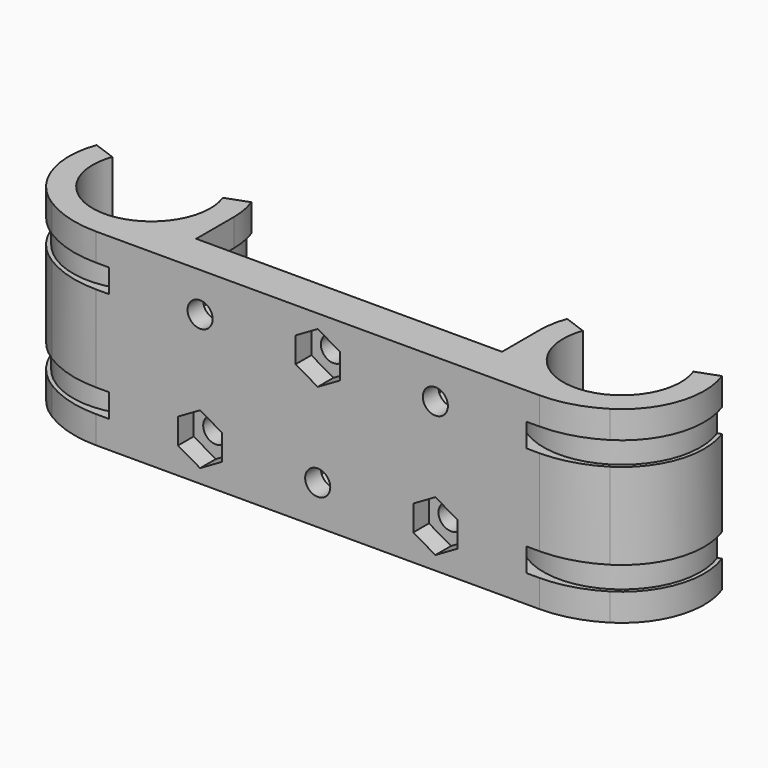
from build123d import *

# Parameters (mm, degrees)
SKETCH002_R      = 1.6
PAD002_DEPTH     = 10
PAD001_DEPTH     = 2.5
CLONE_ROLL_ANGLE = 180
SKETCH003_R      = 11.5
SKETCH003_R_2    = 10
PAD003_DEPTH     = 1.5
PAD_DEPTH        = 12


with BuildPart() as pad002:
    # Sketch002 → Pad002 (new body)
    with BuildSketch(Plane.XZ.offset(6)):
        with Locations((-15, 7)):
            Circle(SKETCH002_R)
        with Locations((0, -7)):
            Circle(SKETCH002_R)
        with Locations((15, 7)):
            Circle(SKETCH002_R)
        with Locations((-15, -7)):
            Circle(SKETCH002_R)
        with Locations((0, 7)):
            Circle(SKETCH002_R)
        with Locations((15, -7)):
            Circle(SKETCH002_R)
    extrude(amount=PAD002_DEPTH)


with BuildPart() as pad001:
    # Sketch001 → Pad001 (new body)
    with BuildSketch(Plane.XZ.offset(6)):
        Polygon((-12.185417, 5.375), (-12.185417, 8.625), (-15, 10.25), (-17.814583, 8.625), (-17.814583, 5.375), (-15, 3.75), align=None)
        Polygon((2.814583, -8.625), (2.814583, -5.375), (0, -3.75), (-2.814583, -5.375), (-2.814583, -8.625), (0, -10.25), align=None)
        Polygon((17.814583, 5.375), (17.814583, 8.625), (15, 10.25), (12.185417, 8.625), (12.185417, 5.375), (15, 3.75), align=None)
    extrude(amount=PAD001_DEPTH)


with BuildPart() as fusion:
    # Clone base: copy of Pad001
    add(pad001.part)


with BuildPart() as fusion_1:
    # Clone roll: moved
    add(fusion.part.rotate(Axis((0, 0, 0), (1, 0, 0)), CLONE_ROLL_ANGLE))


with BuildPart() as fusion_2:
    # Clone placement: moved
    add(fusion_1.part.moved(Location((0, -17, 0))))

    # Fusion: union Pad002, Pad001
    add(pad002.part)
    add(pad001.part)


with BuildPart() as pad003:
    # Sketch003 → Pad003 (new body, symmetric)
    with BuildSketch(Plane.XY):
        with Locations((-30, 0)):
            Circle(SKETCH003_R)
        with Locations((-30, 0)):
            Circle(SKETCH003_R_2, mode=Mode.SUBTRACT)
    extrude(amount=PAD003_DEPTH, both=True)


with BuildPart() as clone_of_pad003:
    # Clone002 base: copy of Pad003
    add(pad003.part)


with BuildPart() as clone_of_pad003_1:
    # Clone002 placement: moved
    add(clone_of_pad003.part.moved(Location((0, 0, -7))))


with BuildPart() as fusion002:
    # Clone001 base: copy of Pad003
    add(pad003.part)


with BuildPart() as fusion002_1:
    # Clone001 placement: moved
    add(fusion002.part.moved(Location((0, 0, 7))))

    # Fusion002: union Clone of Pad003
    add(clone_of_pad003_1.part)


with BuildPart() as cut:
    # Sketch → Pad (new body, symmetric)
    with BuildSketch(Plane.XY):
        with BuildLine():
            ThreePointArc((-37.047695, 2.565151), (-30, -7.5), (-22.952305, 2.565151))
            Line((-22.952305, 2.565151), (-20.133227, 3.591212))
            ThreePointArc((-19.5, 0), (-19.659519, 1.823306), (-20.133227, 3.591212))
            Line((-19.5, 0), (-19.5, -6))
            Line((-19.5, -6), (0, -6))
            Line((0, -6), (0, -11))
            Line((0, -11), (-28.266296, -11))
            ThreePointArc((-35.591373, -8.887438), (-32.078109, -10.461312), (-28.266296, -11))
            ThreePointArc((-39.866773, 3.591212), (-39.933163, -3.403273), (-35.591373, -8.887438))
            Line((-37.047695, 2.565151), (-39.866773, 3.591212))
        make_face()
    extrude(amount=PAD_DEPTH, both=True)

    # Cut: cut Fusion002
    add(fusion002_1.part, mode=Mode.SUBTRACT)


with BuildPart() as cut001:
    # Part__Mirroring: instance of Cut
    add(cut.part.mirror(Plane(origin=(0, 0, 0), x_dir=(0, -1, 0), z_dir=(1, 0, 0))))

    # Fusion003: union Cut
    add(cut.part)

    # Cut001: cut Fusion
    add(fusion_2.part, mode=Mode.SUBTRACT)


solid = cut001.part
